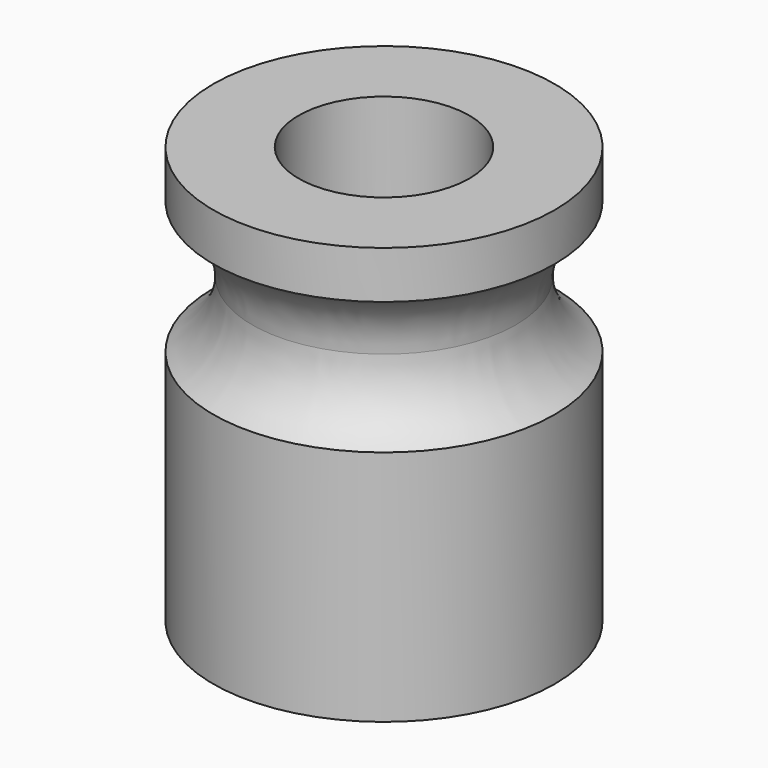
from build123d import *

# Parameters (mm, degrees)
F0_R     = 4.5
F0_R_2   = 2.25
F1_DEPTH = 11
F2_R     = 1.5
F3_DEPTH = 4.501
F2_R_2   = 2


with BuildPart() as f1:
    # F0 (on Top) → F1 (new body)
    with BuildSketch(Plane.XY):
        Circle(F0_R)
        Circle(F0_R_2, mode=Mode.SUBTRACT)
    extrude(amount=F1_DEPTH)

    # F2 (on Front) → F3 (cut, through all)
    with BuildSketch(Plane.XZ):
        with Locations((0, 3.4)):
            Circle(F2_R)
    extrude(amount=-F3_DEPTH, mode=Mode.SUBTRACT)

    # F2 (on Front) → F4 (revolve, cut)
    with BuildSketch(Plane.XZ):
        with Locations((-5.475, 8)):
            Circle(F2_R_2)
    revolve(axis=Axis((0, 0, 6.367243), (0, 0, -1)), mode=Mode.SUBTRACT)


solid = f1.part
